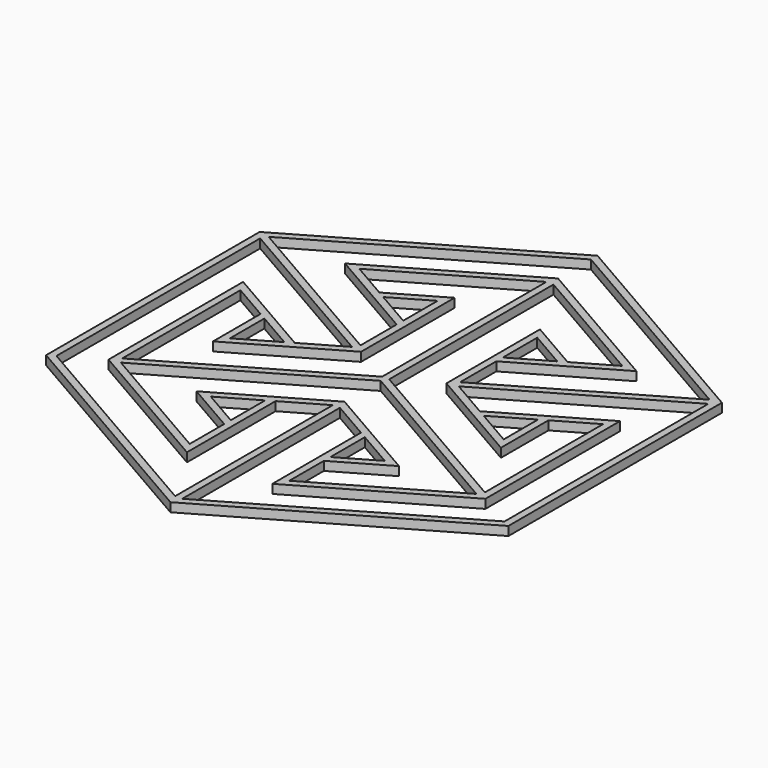
from build123d import *

# Parameters (mm, degrees)
F1_DEPTH = 2


with BuildPart() as f1:
    # F0 (on Top) → F1 (new body)
    with BuildSketch(Plane.XY):
        Polygon((0, 60), (-51.961524, 30), (-51.961524, -30), (0, -60), (51.961524, -30), (51.961524, 30), align=None)
        Polygon((-11.2, -19.398969), (-11.2, -29.054026), (-19.561524, -24.226497), align=None, mode=Mode.SUBTRACT)
        Polygon((-50.361524, -29.07624), (-50.361524, 28.152479), (-12, 6.004443), (-20.8, 0.92376), (-42.361524, 13.372312), (-42.361524, -24.457437), (-9.6, -43.372312), (-9.6, -18.475209), (-0.8, -13.394526), (-0.8, -57.690599), align=None, mode=Mode.SUBTRACT)
        Polygon((0, -11.085125), (-22.761524, -24.226497), (-11.2, -30.901546), (-11.2, -40.601031), (-39.961524, -23.995557), (0, -0.92376), (39.961524, -23.995557), (11.2, -40.601031), (11.2, -30.901546), (22.761524, -24.226497), align=None, mode=Mode.SUBTRACT)
        Polygon((11.2, -19.398969), (19.561524, -24.226497), (11.2, -29.054026), align=None, mode=Mode.SUBTRACT)
        Polygon((50.361524, -29.07624), (0.8, -57.690599), (0.8, -13.394526), (9.6, -18.475209), (9.6, -43.372312), (42.361524, -24.457437), (42.361524, 13.372312), (20.8, 0.92376), (12, 6.004443), (50.361524, 28.152479), align=None, mode=Mode.SUBTRACT)
        Polygon((-22.4, 0), (-30.761524, -4.827528), (-30.761524, 4.827528), align=None, mode=Mode.SUBTRACT)
        Polygon((-40.761524, -22.609917), (-40.761524, 10.601031), (-32.361524, 5.751289), (-32.361524, -7.59881), (-9.6, 5.542563), (-9.6, 31.825307), (-21.161524, 25.150258), (-29.561524, 30), (-0.8, 46.605474), (-0.8, 0.46188), align=None, mode=Mode.SUBTRACT)
        Polygon((-11.2, 29.054026), (-11.2, 19.398969), (-19.561524, 24.226497), align=None, mode=Mode.SUBTRACT)
        Polygon((0, 48.914875), (-32.761524, 30), (-11.2, 17.551448), (-11.2, 7.390083), (-49.561524, 29.53812), (0, 58.152479), (49.561524, 29.53812), (11.2, 7.390083), (11.2, 17.551448), (32.761524, 30), align=None, mode=Mode.SUBTRACT)
        Polygon((0.8, 46.605474), (29.561524, 30), (21.161524, 25.150258), (9.6, 31.825307), (9.6, 5.542563), (32.361524, -7.59881), (32.361524, 5.751289), (40.761524, 10.601031), (40.761524, -22.609917), (0.8, 0.46188), align=None, mode=Mode.SUBTRACT)
        Polygon((19.561524, 24.226497), (11.2, 19.398969), (11.2, 29.054026), align=None, mode=Mode.SUBTRACT)
        Polygon((30.761524, -4.827528), (22.4, 0), (30.761524, 4.827528), align=None, mode=Mode.SUBTRACT)
    extrude(amount=F1_DEPTH)


solid = f1.part
